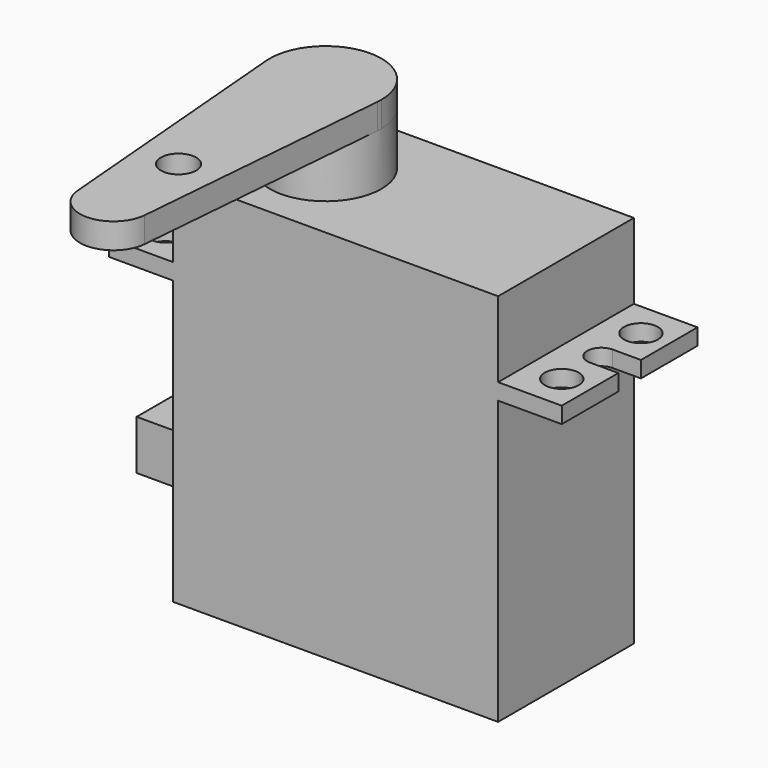
from build123d import *

# Parameters (mm, degrees)
F0_W      = 23
F0_H      = 12
F1_DEPTH  = 26.5
F4_DEPTH  = 1.15
F5_D      = 2.4
F6_R      = 3.95
F7_DEPTH  = 3.75
F8_R      = 1.25
F9_DEPTH  = 1.8
F10_W     = 5.9
F10_H     = 3.5
F11_DEPTH = 5


with BuildPart() as f1:
    # F0 (on Top) → F1 (new body)
    with BuildSketch(Plane.XY):
        Rectangle(F0_W, F0_H)
    extrude(amount=F1_DEPTH)

    # F3 (on offset) → F4 (join)
    with BuildSketch(Plane.XY.offset(20)):
        with BuildLine():
            Line((16, 1), (16, 6))
            Line((16, 6), (-16, 6))
            Line((-16, 6), (-16, 1))
            Line((-16, 1), (-14, 1))
            ThreePointArc((-14, 1), (-13, 0), (-14, -1))
            Line((-14, -1), (-16, -1))
            Line((-16, -1), (-16, -6))
            Line((-16, -6), (16, -6))
            Line((16, -6), (16, -1))
            Line((16, -1), (14, -1))
            ThreePointArc((14, -1), (13, 0), (14, 1))
            Line((14, 1), (16, 1))
        make_face()
    extrude(amount=F4_DEPTH)

    # F5 (through all)
    with Locations(Plane(origin=(0, 0, 20), x_dir=(1, 0, 0), z_dir=(0, 0, -1))):
        with Locations((-14, 3.5), (-14, -3.5), (14, 3.5), (14, -3.5)):
            Hole(F5_D / 2)

    # F6 (on face) → F7 (join)
    with BuildSketch(Plane.XY.offset(26.5)):
        with Locations((-5.5, 0)):
            Circle(F6_R)
    extrude(amount=F7_DEPTH)

    # F8 (on face) → F9 (join)
    with BuildSketch(Plane.XY.offset(30.25)):
        with BuildLine():
            ThreePointArc((-1.56396, -0.3318), (-1.553492, -0.166047), (-1.55, 0))
            ThreePointArc((-1.55, 0), (-5.666047, 3.946508), (-9.43604, -0.3318))
            ThreePointArc((-9.43604, -0.3318), (-5.5, -3.95), (-1.56396, -0.3318))
        make_face()
        with BuildLine():
            ThreePointArc((-1.56396, -0.3318), (-5.5, -3.95), (-9.43604, -0.3318))
            Line((-9.43604, -0.3318), (-7.866606, -18.9495))
            ThreePointArc((-7.866606, -18.9495), (-5.599838, -16.377099), (-3.125, -18.75))
            ThreePointArc((-3.125, -18.75), (-3.127099, -18.849838), (-3.133394, -18.9495))
            Line((-3.133394, -18.9495), (-1.56396, -0.3318))
        make_face()
        with Locations((-5.5, -13)):
            Circle(F8_R, mode=Mode.SUBTRACT)
        with BuildLine():
            ThreePointArc((-3.125, -18.75), (-5.599838, -16.377099), (-7.866606, -18.9495))
            ThreePointArc((-7.866606, -18.9495), (-5.5, -21.125), (-3.133394, -18.9495))
            ThreePointArc((-3.133394, -18.9495), (-3.127099, -18.849838), (-3.125, -18.75))
        make_face()
    extrude(amount=F9_DEPTH)

    # F10 (on face) → F11 (join)
    with BuildSketch(Plane(origin=(-11.5, 0, 0), x_dir=(0, -1, 0), z_dir=(-1, 0, 0))):
        with Locations((0, 6.9)):
            Rectangle(F10_W, F10_H)
    extrude(amount=F11_DEPTH)


solid = f1.part
